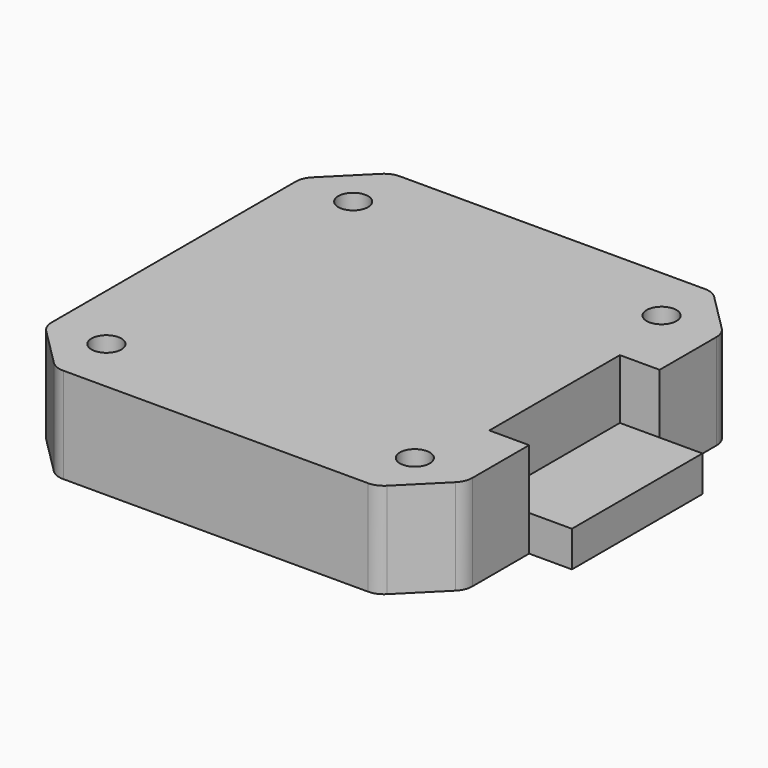
from build123d import *

# Parameters (mm, degrees)
SKETCH024_W      = 42.3
SKETCH024_H      = 42.3
PAD011_DEPTH     = 9.6
SKETCH023_W      = 4.3
SKETCH023_H      = 16.4
PAD010_DEPTH     = 3.6
CHAMFER006_SIZE  = 5
FILLET005_R      = 2
HOLE_D           = 3
HOLE_DEPTH       = 25
HOLE_CBORE_D     = 5
HOLE_CBORE_DEPTH = 5
SKETCH040_W      = 16.4
SKETCH040_H      = 6
POCKET006_DEPTH  = 4


with BuildPart() as part:
    # Sketch024 → Pad011 (new body)
    with BuildSketch(Plane.XY):
        Rectangle(SKETCH024_W, SKETCH024_H)
    extrude(amount=PAD011_DEPTH)

    # Sketch023 → Pad010 (join)
    with BuildSketch(Plane.XY):
        with Locations((23.3, 0)):
            Rectangle(SKETCH023_W, SKETCH023_H)
    extrude(amount=PAD010_DEPTH)

    # Chamfer006
    chamfer006_edges = [part.edges().sort_by_distance(p)[0] for p in [
        (21.15, -21.15, 4.8),
        (-21.15, -21.15, 4.8),
        (-21.15, 21.15, 4.8),
        (21.15, 21.15, 4.8),
    ]]
    chamfer(chamfer006_edges, length=CHAMFER006_SIZE)

    # Fillet005
    fillet005_edges = [part.edges().sort_by_distance(p)[0] for p in [
        (16.15, -21.15, 4.8),
        (21.15, -16.15, 4.8),
        (21.15, 16.15, 4.8),
        (16.15, 21.15, 4.8),
        (-16.15, 21.15, 4.8),
        (-21.15, 16.15, 4.8),
        (-16.15, -21.15, 4.8),
        (-21.15, -16.15, 4.8),
    ]]
    fillet(fillet005_edges, radius=FILLET005_R)

    # Hole
    with Locations(Plane(origin=(0, 0, 0), x_dir=(1, 0, 0), z_dir=(0, 0, -1))):
        with Locations((-15.5, 15.5), (15.5, 15.5), (15.5, -15.5), (-15.5, -15.5)):
            CounterBoreHole(HOLE_D / 2, HOLE_CBORE_D / 2, HOLE_CBORE_DEPTH, depth=HOLE_DEPTH)

    # Sketch040 (on Face11 of Hole) → Pocket006 (cut)
    with BuildSketch(Plane.YZ.offset(21.15)):
        with Locations((0, 6.6)):
            Rectangle(SKETCH040_W, SKETCH040_H)
    extrude(amount=-POCKET006_DEPTH, mode=Mode.SUBTRACT)


solid = part.part
